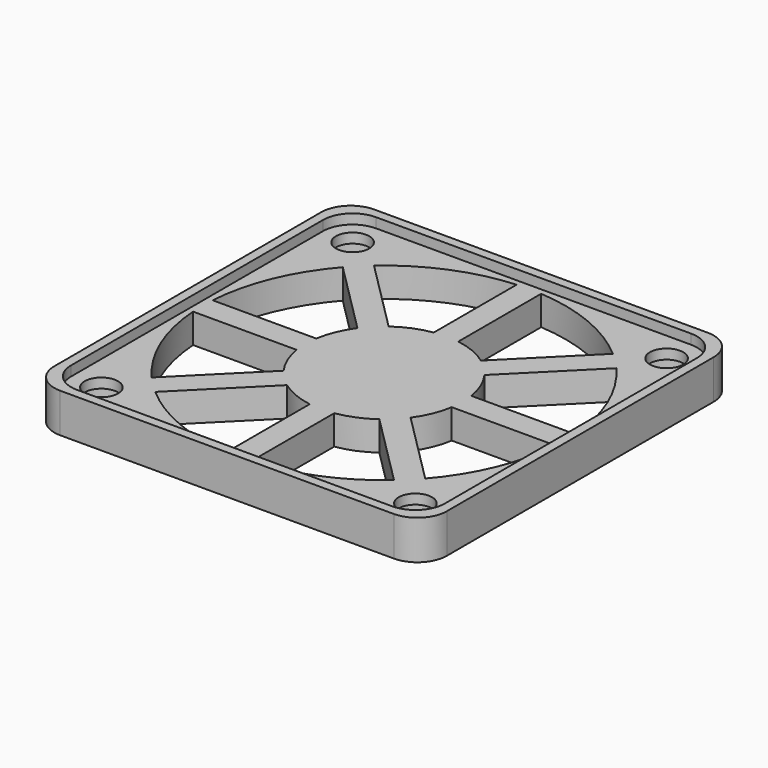
from build123d import *

# Parameters (mm, degrees)
F0_W     = 40
F0_H     = 40
F0_W_2   = 38.1
F0_H_2   = 38.1
F0_R     = 3
F0_R_2   = 18.5
F0_R_3   = 1.7
F1_DEPTH = 3
F0_R_4   = 8
F3_DEPTH = 3
F5_COUNT = 8
F6_DEPTH = 2
F7_DEPTH = 4
F8_R     = 3
F9_R     = 3


with BuildPart() as f1:
    # F0 (on Top) → F1 (new body)
    with BuildSketch(Plane.XY):
        Rectangle(F0_W, F0_H)
        Rectangle(F0_W_2, F0_H_2, mode=Mode.SUBTRACT)
        Rectangle(F0_W_2, F0_H_2)
        with Locations((-16, -16)):
            Circle(F0_R, mode=Mode.SUBTRACT)
        with Locations((16, -16)):
            Circle(F0_R, mode=Mode.SUBTRACT)
        with Locations((-16, 16)):
            Circle(F0_R, mode=Mode.SUBTRACT)
        Circle(F0_R_2, mode=Mode.SUBTRACT)
        with Locations((16, 16)):
            Circle(F0_R, mode=Mode.SUBTRACT)
        with Locations((-16, 16)):
            Circle(F0_R)
        with Locations((-16, 16)):
            Circle(F0_R_3, mode=Mode.SUBTRACT)
        with Locations((-16, -16)):
            Circle(F0_R)
        with Locations((-16, -16)):
            Circle(F0_R_3, mode=Mode.SUBTRACT)
        with Locations((16, -16)):
            Circle(F0_R)
        with Locations((16, -16)):
            Circle(F0_R_3, mode=Mode.SUBTRACT)
        with Locations((16, 16)):
            Circle(F0_R)
        with Locations((16, 16)):
            Circle(F0_R_3, mode=Mode.SUBTRACT)
    extrude(amount=F1_DEPTH)

    # F0 (on Top) → F6 (cut)
    with BuildSketch(Plane.XY):
        with Locations((16, -16)):
            Circle(F0_R)
        with Locations((16, -16)):
            Circle(F0_R_3, mode=Mode.SUBTRACT)
        with Locations((-16, -16)):
            Circle(F0_R)
        with Locations((-16, -16)):
            Circle(F0_R_3, mode=Mode.SUBTRACT)
        with Locations((-16, 16)):
            Circle(F0_R)
        with Locations((-16, 16)):
            Circle(F0_R_3, mode=Mode.SUBTRACT)
        with Locations((16, 16)):
            Circle(F0_R)
        with Locations((16, 16)):
            Circle(F0_R_3, mode=Mode.SUBTRACT)
    extrude(amount=F6_DEPTH, mode=Mode.SUBTRACT)



with BuildPart() as f1b:
    # F0 (on Top) → F1, piece 2 (new body)
    with BuildSketch(Plane.XY):
        Circle(F0_R_4)
    extrude(amount=F1_DEPTH)


with BuildPart() as f3:
    # F2 (on face) → F3 (new body)
    with BuildSketch(Plane.XY.offset(3)):
        with BuildLine():
            Line((1.25, 6), (1.25, 18.4577219613))
            ThreePointArc((1.25, 18.4577219613), (0, 18.5), (-1.25, 18.4577219613))
            Line((-1.25, 18.4577219613), (-1.25, 6))
            Line((-1.25, 6), (1.25, 6))
        make_face()
    extrude(amount=-F3_DEPTH)


with BuildPart() as f5_1:
    # F5: instance of F3
    add(f3.part.rotate(Axis((0, 0, 1.5), (0, 0, 1)), 1 * 360 / F5_COUNT))


with BuildPart() as f5_2:
    # F5: instance of F3
    add(f3.part.rotate(Axis((0, 0, 1.5), (0, 0, 1)), 2 * 360 / F5_COUNT))


with BuildPart() as f5_3:
    # F5: instance of F3
    add(f3.part.rotate(Axis((0, 0, 1.5), (0, 0, 1)), 3 * 360 / F5_COUNT))


with BuildPart() as f5_4:
    # F5: instance of F3
    add(f3.part.rotate(Axis((0, 0, 1.5), (0, 0, 1)), 4 * 360 / F5_COUNT))


with BuildPart() as f5_5:
    # F5: instance of F3
    add(f3.part.rotate(Axis((0, 0, 1.5), (0, 0, 1)), 5 * 360 / F5_COUNT))


with BuildPart() as f5_6:
    # F5: instance of F3
    add(f3.part.rotate(Axis((0, 0, 1.5), (0, 0, 1)), 6 * 360 / F5_COUNT))


with BuildPart() as f5_7:
    # F5: instance of F3
    add(f3.part.rotate(Axis((0, 0, 1.5), (0, 0, 1)), 7 * 360 / F5_COUNT))


with BuildPart() as f1_1:
    add(f1.part)

    add(f1b.part)  # F7 merges F1b

    add(f3.part)  # F7 merges F3

    add(f5_1.part)  # F7 merges F5_1

    add(f5_2.part)  # F7 merges F5_2

    add(f5_3.part)  # F7 merges F5_3

    add(f5_4.part)  # F7 merges F5_4

    add(f5_5.part)  # F7 merges F5_5

    add(f5_6.part)  # F7 merges F5_6

    add(f5_7.part)  # F7 merges F5_7
    # F0 (on Top) → F7 (join)
    with BuildSketch(Plane.XY):
        Rectangle(F0_W, F0_H)
        Rectangle(F0_W_2, F0_H_2, mode=Mode.SUBTRACT)
    extrude(amount=F7_DEPTH)

    # F8
    f8_edges = [f1_1.edges().sort_by_distance(p)[0] for p in [
        (-20, -20, 2),
        (20, -20, 2),
        (20, 20, 2),
        (-20, 20, 2),
    ]]
    fillet(f8_edges, radius=F8_R)

    # F9
    f9_edges = [f1_1.edges().sort_by_distance(p)[0] for p in [
        (-19.05, -19.05, 3.5),
        (-19.05, 19.05, 3.5),
        (19.05, 19.05, 3.5),
        (19.05, -19.05, 3.5),
    ]]
    fillet(f9_edges, radius=F9_R)


solid = f1_1.part
